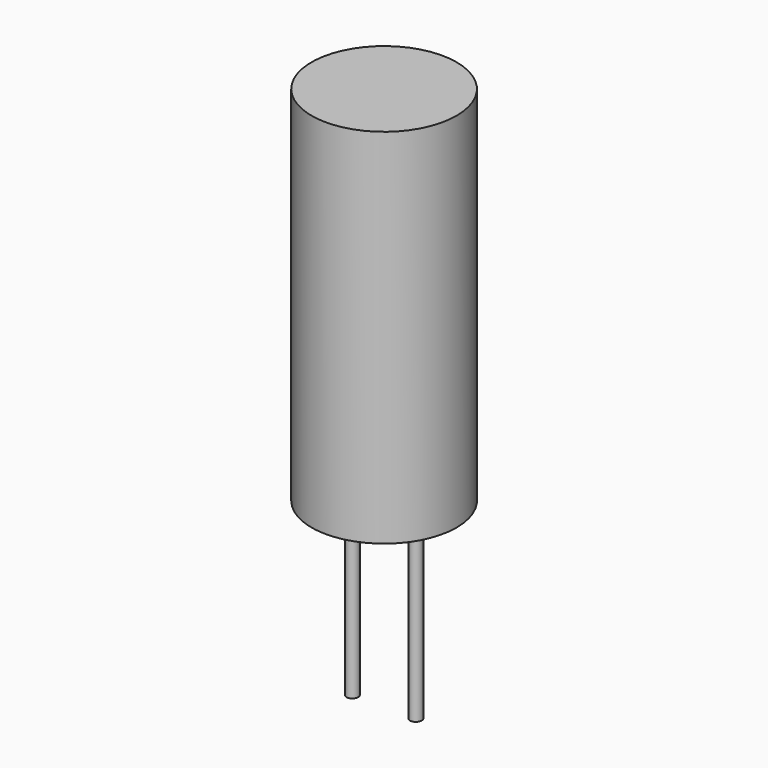
from build123d import *

# Parameters (mm, degrees)
F0_R     = 4
F1_DEPTH = 20
F2_R     = 0.325
F3_DEPTH = 10


with BuildPart() as f1:
    # F0 (on Top) → F1 (new body)
    with BuildSketch(Plane.XY):
        Circle(F0_R)
    extrude(amount=F1_DEPTH)

    # F2 (on face) → F3 (join)
    with BuildSketch(Plane(origin=(0, 0, 0), x_dir=(1, 0, 0), z_dir=(0, 0, -1))):
        with Locations((-1.75, 0)):
            Circle(F2_R)
        with Locations((1.75, 0)):
            Circle(F2_R)
    extrude(amount=F3_DEPTH)


solid = f1.part
